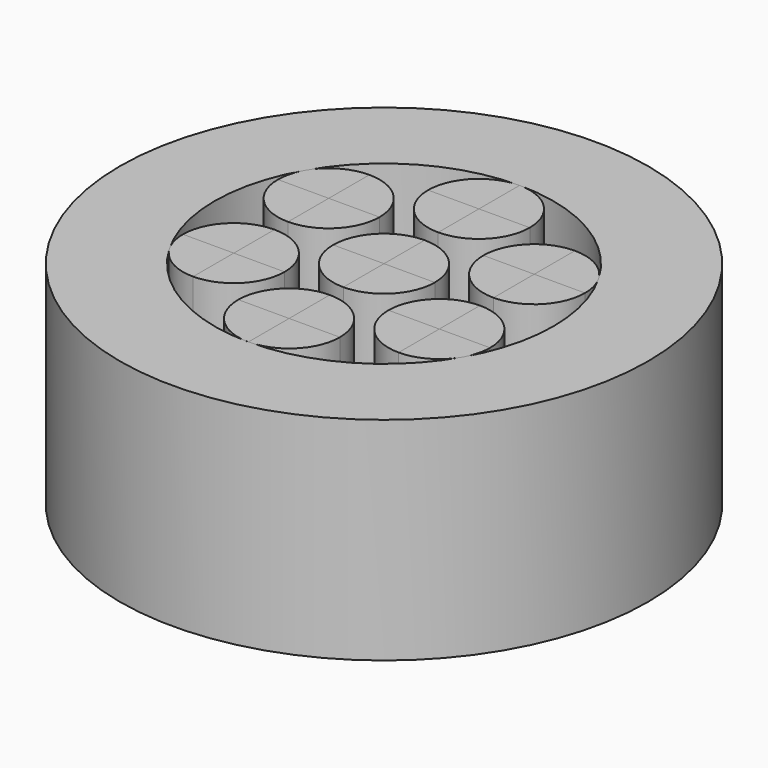
from build123d import *

# Parameters (mm, degrees)
F1_DEPTH = 25
F2_DEPTH = 25
F0_R     = 31.1674729763
F3_DEPTH = 25


with BuildPart() as f1:
    # F0 (on Top) → F1 (new body)
    with BuildSketch(Plane.XY):
        with BuildLine():
            Line((0, -14), (0, -20))
            ThreePointArc((0, -20), (4.2426406871, -18.2426406871), (6, -14))
            Line((6, -14), (0, -14))
        make_face()
    extrude(amount=F1_DEPTH)


with BuildPart() as f1b:
    # F0 (on Top) → F1, piece 2 (new body)
    with BuildSketch(Plane.XY):
        with BuildLine():
            ThreePointArc((0, -8), (-4.2426406871, -9.7573593129), (-6, -14))
            Line((-6, -14), (0, -14))
            Line((0, -14), (0, -8))
        make_face()
    extrude(amount=F1_DEPTH)


with BuildPart() as f1c:
    # F0 (on Top) → F1, piece 3 (new body)
    with BuildSketch(Plane.XY):
        with BuildLine():
            ThreePointArc((-12.124355653, 1), (-7.8817149659, 2.7573593129), (-6.124355653, 7))
            Line((-6.124355653, 7), (-12.124355653, 7))
            Line((-12.124355653, 7), (-12.124355653, 1))
        make_face()
    extrude(amount=F1_DEPTH)


with BuildPart() as f1d:
    # F0 (on Top) → F1, piece 4 (new body)
    with BuildSketch(Plane.XY):
        with BuildLine():
            Line((0, 0), (0, 6))
            ThreePointArc((0, 6), (-4.2426406871, 4.2426406871), (-6, 0))
            Line((-6, 0), (0, 0))
        make_face()
    extrude(amount=F1_DEPTH)


with BuildPart() as f1e:
    # F0 (on Top) → F1, piece 5 (new body)
    with BuildSketch(Plane.XY):
        with BuildLine():
            ThreePointArc((0, -6), (4.2426406871, -4.2426406871), (6, 0))
            Line((6, 0), (0, 0))
            Line((0, 0), (0, -6))
        make_face()
    extrude(amount=F1_DEPTH)


with BuildPart() as f1f:
    # F0 (on Top) → F1, piece 6 (new body)
    with BuildSketch(Plane.XY):
        with BuildLine():
            Line((0, 14), (0, 20))
            ThreePointArc((0, 20), (-4.2426406871, 18.2426406871), (-6, 14))
            Line((-6, 14), (0, 14))
        make_face()
    extrude(amount=F1_DEPTH)


with BuildPart() as f1g:
    # F0 (on Top) → F1, piece 7 (new body)
    with BuildSketch(Plane.XY):
        with BuildLine():
            ThreePointArc((0, 8), (4.2426406871, 9.7573593129), (6, 14))
            Line((6, 14), (0, 14))
            Line((0, 14), (0, 8))
        make_face()
    extrude(amount=F1_DEPTH)


with BuildPart() as f1h:
    # F0 (on Top) → F1, piece 8 (new body)
    with BuildSketch(Plane.XY):
        with BuildLine():
            ThreePointArc((-12.124355653, 13), (-15.1243555847, 12.1961524621), (-17.3205079969, 10.0000001365))
            ThreePointArc((-17.3205079969, 10.0000001365), (-17.9199105903, 8.5529143467), (-18.124355653, 7))
            Line((-18.124355653, 7), (-12.124355653, 7))
            Line((-12.124355653, 7), (-12.124355653, 13))
        make_face()
    extrude(amount=F1_DEPTH)


with BuildPart() as f1i:
    # F0 (on Top) → F1, piece 9 (new body)
    with BuildSketch(Plane.XY):
        with BuildLine():
            Line((-12.124355653, -7), (-12.124355653, -13))
            ThreePointArc((-12.124355653, -13), (-7.8817149659, -11.2426406871), (-6.124355653, -7))
            Line((-6.124355653, -7), (-12.124355653, -7))
        make_face()
    extrude(amount=F1_DEPTH)


with BuildPart() as f1j:
    # F0 (on Top) → F1, piece 10 (new body)
    with BuildSketch(Plane.XY):
        with BuildLine():
            ThreePointArc((-12.124355653, -1), (-16.3669963401, -2.7573593129), (-18.124355653, -7))
            Line((-18.124355653, -7), (-12.124355653, -7))
            Line((-12.124355653, -7), (-12.124355653, -1))
        make_face()
    extrude(amount=F1_DEPTH)


with BuildPart() as f1k:
    # F0 (on Top) → F1, piece 11 (new body)
    with BuildSketch(Plane.XY):
        with BuildLine():
            ThreePointArc((12.124355653, 1), (16.3669963401, 2.7573593129), (18.124355653, 7))
            Line((18.124355653, 7), (12.124355653, 7))
            Line((12.124355653, 7), (12.124355653, 1))
        make_face()
    extrude(amount=F1_DEPTH)


with BuildPart() as f1l:
    # F0 (on Top) → F1, piece 12 (new body)
    with BuildSketch(Plane.XY):
        with BuildLine():
            ThreePointArc((12.124355653, -13), (15.1243557101, -12.1961523897), (17.3205081416, -9.9999998858))
            ThreePointArc((17.3205081416, -9.9999998858), (17.9199106278, -8.5529142069), (18.124355653, -7))
            Line((18.124355653, -7), (12.124355653, -7))
            Line((12.124355653, -7), (12.124355653, -13))
        make_face()
    extrude(amount=F1_DEPTH)


with BuildPart() as f1m:
    # F0 (on Top) → F1, piece 13 (new body)
    with BuildSketch(Plane.XY):
        with BuildLine():
            ThreePointArc((12.124355653, -1), (7.8817149659, -2.7573593129), (6.124355653, -7))
            Line((6.124355653, -7), (12.124355653, -7))
            Line((12.124355653, -7), (12.124355653, -1))
        make_face()
    extrude(amount=F1_DEPTH)


with BuildPart() as f1n:
    # F0 (on Top) → F1, piece 14 (new body)
    with BuildSketch(Plane.XY):
        with BuildLine():
            Line((12.124355653, 7), (12.124355653, 13))
            ThreePointArc((12.124355653, 13), (7.8817149659, 11.2426406871), (6.124355653, 7))
            Line((6.124355653, 7), (12.124355653, 7))
        make_face()
    extrude(amount=F1_DEPTH)


with BuildPart() as f2:
    # F0 (on Top) → F2 (new body)
    with BuildSketch(Plane.XY):
        with BuildLine():
            Line((-12.124355653, 7), (-18.124355653, 7))
            ThreePointArc((-18.124355653, 7), (-16.3669963401, 2.7573593129), (-12.124355653, 1))
            Line((-12.124355653, 1), (-12.124355653, 7))
        make_face()
    extrude(amount=F2_DEPTH)


with BuildPart() as f2b:
    # F0 (on Top) → F2, piece 2 (new body)
    with BuildSketch(Plane.XY):
        with BuildLine():
            ThreePointArc((-6.124355653, 7), (-7.8817149659, 11.2426406871), (-12.124355653, 13))
            Line((-12.124355653, 13), (-12.124355653, 7))
            Line((-12.124355653, 7), (-6.124355653, 7))
        make_face()
    extrude(amount=F2_DEPTH)


with BuildPart() as f2c:
    # F0 (on Top) → F2, piece 3 (new body)
    with BuildSketch(Plane.XY):
        with BuildLine():
            ThreePointArc((6, 14), (4.2426406871, 18.2426406871), (0, 20))
            Line((0, 20), (0, 14))
            Line((0, 14), (6, 14))
        make_face()
    extrude(amount=F2_DEPTH)


with BuildPart() as f2d:
    # F0 (on Top) → F2, piece 4 (new body)
    with BuildSketch(Plane.XY):
        with BuildLine():
            Line((0, 14), (-6, 14))
            ThreePointArc((-6, 14), (-4.2426406871, 9.7573593129), (0, 8))
            Line((0, 8), (0, 14))
        make_face()
    extrude(amount=F2_DEPTH)


with BuildPart() as f2e:
    # F0 (on Top) → F2, piece 5 (new body)
    with BuildSketch(Plane.XY):
        with BuildLine():
            Line((0, 0), (6, 0))
            ThreePointArc((6, 0), (4.2426406871, 4.2426406871), (0, 6))
            Line((0, 6), (0, 0))
        make_face()
    extrude(amount=F2_DEPTH)


with BuildPart() as f2f:
    # F0 (on Top) → F2, piece 6 (new body)
    with BuildSketch(Plane.XY):
        with BuildLine():
            ThreePointArc((-6, 0), (-4.2426406871, -4.2426406871), (0, -6))
            Line((0, -6), (0, 0))
            Line((0, 0), (-6, 0))
        make_face()
    extrude(amount=F2_DEPTH)


with BuildPart() as f2g:
    # F0 (on Top) → F2, piece 7 (new body)
    with BuildSketch(Plane.XY):
        with BuildLine():
            ThreePointArc((18.124355653, 7), (17.9199106302, 8.5529141978), (17.3205081511, 9.9999998694))
            ThreePointArc((17.3205081511, 9.9999998694), (15.1243557183, 12.196152385), (12.124355653, 13))
            Line((12.124355653, 13), (12.124355653, 7))
            Line((12.124355653, 7), (18.124355653, 7))
        make_face()
    extrude(amount=F2_DEPTH)


with BuildPart() as f2h:
    # F0 (on Top) → F2, piece 8 (new body)
    with BuildSketch(Plane.XY):
        with BuildLine():
            ThreePointArc((6.124355653, -7), (7.8817149659, -11.2426406871), (12.124355653, -13))
            Line((12.124355653, -13), (12.124355653, -7))
            Line((12.124355653, -7), (6.124355653, -7))
        make_face()
    extrude(amount=F2_DEPTH)


with BuildPart() as f2i:
    # F0 (on Top) → F2, piece 9 (new body)
    with BuildSketch(Plane.XY):
        with BuildLine():
            Line((12.124355653, -7), (18.124355653, -7))
            ThreePointArc((18.124355653, -7), (16.3669963401, -2.7573593129), (12.124355653, -1))
            Line((12.124355653, -1), (12.124355653, -7))
        make_face()
    extrude(amount=F2_DEPTH)


with BuildPart() as f2j:
    # F0 (on Top) → F2, piece 10 (new body)
    with BuildSketch(Plane.XY):
        with BuildLine():
            Line((0, -14), (6, -14))
            ThreePointArc((6, -14), (4.2426406871, -9.7573593129), (0, -8))
            Line((0, -8), (0, -14))
        make_face()
    extrude(amount=F2_DEPTH)


with BuildPart() as f2k:
    # F0 (on Top) → F2, piece 11 (new body)
    with BuildSketch(Plane.XY):
        with BuildLine():
            ThreePointArc((-6, -14), (-4.2426406871, -18.2426406871), (0, -20))
            Line((0, -20), (0, -14))
            Line((0, -14), (-6, -14))
        make_face()
    extrude(amount=F2_DEPTH)


with BuildPart() as f2l:
    # F0 (on Top) → F2, piece 12 (new body)
    with BuildSketch(Plane.XY):
        with BuildLine():
            ThreePointArc((-18.124355653, -7), (-17.9199106445, -8.5529141443), (-17.3205082064, -9.9999997736))
            ThreePointArc((-17.3205082064, -9.9999997736), (-15.1243557662, -12.1961523573), (-12.124355653, -13))
            Line((-12.124355653, -13), (-12.124355653, -7))
            Line((-12.124355653, -7), (-18.124355653, -7))
        make_face()
    extrude(amount=F2_DEPTH)


with BuildPart() as f2m:
    # F0 (on Top) → F2, piece 13 (new body)
    with BuildSketch(Plane.XY):
        with BuildLine():
            ThreePointArc((-6.124355653, -7), (-7.8817149659, -2.7573593129), (-12.124355653, -1))
            Line((-12.124355653, -1), (-12.124355653, -7))
            Line((-12.124355653, -7), (-6.124355653, -7))
        make_face()
    extrude(amount=F2_DEPTH)


with BuildPart() as f2n:
    # F0 (on Top) → F2, piece 14 (new body)
    with BuildSketch(Plane.XY):
        with BuildLine():
            ThreePointArc((6.124355653, 7), (7.8817149659, 2.7573593129), (12.124355653, 1))
            Line((12.124355653, 1), (12.124355653, 7))
            Line((12.124355653, 7), (6.124355653, 7))
        make_face()
    extrude(amount=F2_DEPTH)


with BuildPart() as f3:
    # F0 (on Top) → F3 (new body)
    with BuildSketch(Plane.XY):
        Circle(F0_R)
        with BuildLine():
            ThreePointArc((17.3205081511, 9.9999998694), (19.3185165453, 5.1763808292), (20, 0))
            ThreePointArc((20, 0), (19.3185165429, -5.1763808383), (17.3205081416, -9.9999998858))
            ThreePointArc((17.3205081416, -9.9999998858), (10.0000000571, -17.3205080427), (0, -20))
            ThreePointArc((0, -20), (-10.0000001132, -17.3205080103), (-17.3205082064, -9.9999997736))
            ThreePointArc((-17.3205082064, -9.9999997736), (-20, 2.095e-07), (-17.3205079969, 10.0000001365))
            ThreePointArc((-17.3205079969, 10.0000001365), (-9.9999999318, 17.3205081151), (0, 20))
            ThreePointArc((0, 20), (10.0000000653, 17.320508038), (17.3205081511, 9.9999998694))
        make_face(mode=Mode.SUBTRACT)
    extrude(amount=F3_DEPTH)


solid = Compound([f1.part, f1b.part, f1c.part, f1d.part, f1e.part, f1f.part, f1g.part, f1h.part, f1i.part, f1j.part, f1k.part, f1l.part, f1m.part, f1n.part, f2.part, f2b.part, f2c.part, f2d.part, f2e.part, f2f.part, f2g.part, f2h.part, f2i.part, f2j.part, f2k.part, f2l.part, f2m.part, f2n.part, f3.part])
